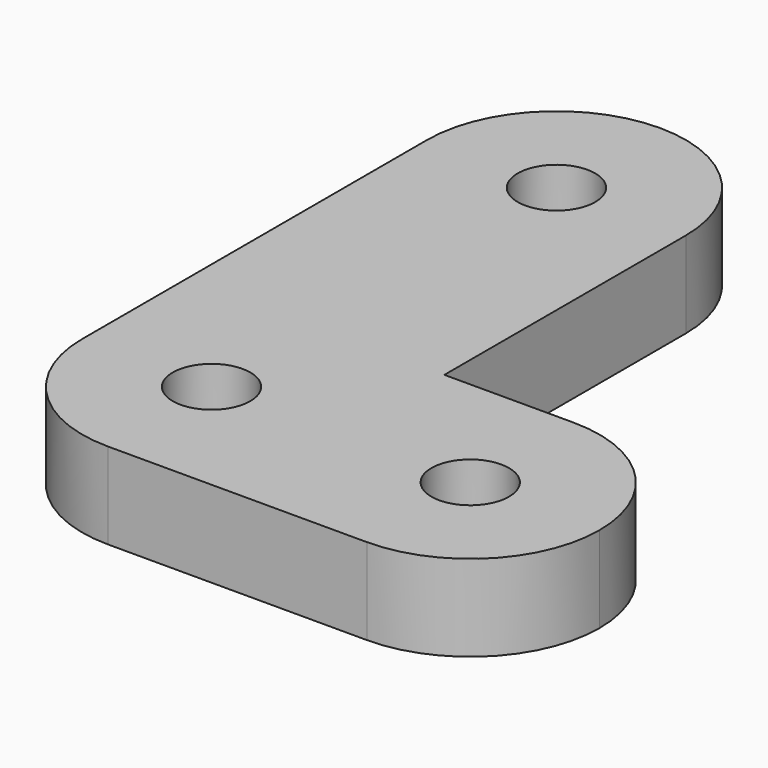
from build123d import *

# Parameters (mm, degrees)
F0_R     = 2.25
F1_DEPTH = 5


with BuildPart() as f1:
    # F0 (on Top) → F1 (new body)
    with BuildSketch(Plane.XY):
        with BuildLine():
            ThreePointArc((0, 25), (-5.303301, 22.803301), (-7.5, 17.5))
            Line((-7.5, 17.5), (-7.5, -7.5))
            ThreePointArc((-7.5, -7.5), (-5.303301, -12.803301), (0, -15))
            Line((0, -15), (15, -15))
            ThreePointArc((15, -15), (20.303301, -12.803301), (22.5, -7.5))
            ThreePointArc((22.5, -7.5), (20.303301, -2.196699), (15, 0))
            Line((15, 0), (7.5, 0))
            Line((7.5, 0), (7.5, 17.5))
            ThreePointArc((7.5, 17.5), (5.303301, 22.803301), (0, 25))
        make_face()
        with Locations((0, -7.5)):
            Circle(F0_R, mode=Mode.SUBTRACT)
        with Locations((15, -7.5)):
            Circle(F0_R, mode=Mode.SUBTRACT)
        with Locations((0, 17.5)):
            Circle(F0_R, mode=Mode.SUBTRACT)
    extrude(amount=F1_DEPTH)


solid = f1.part
